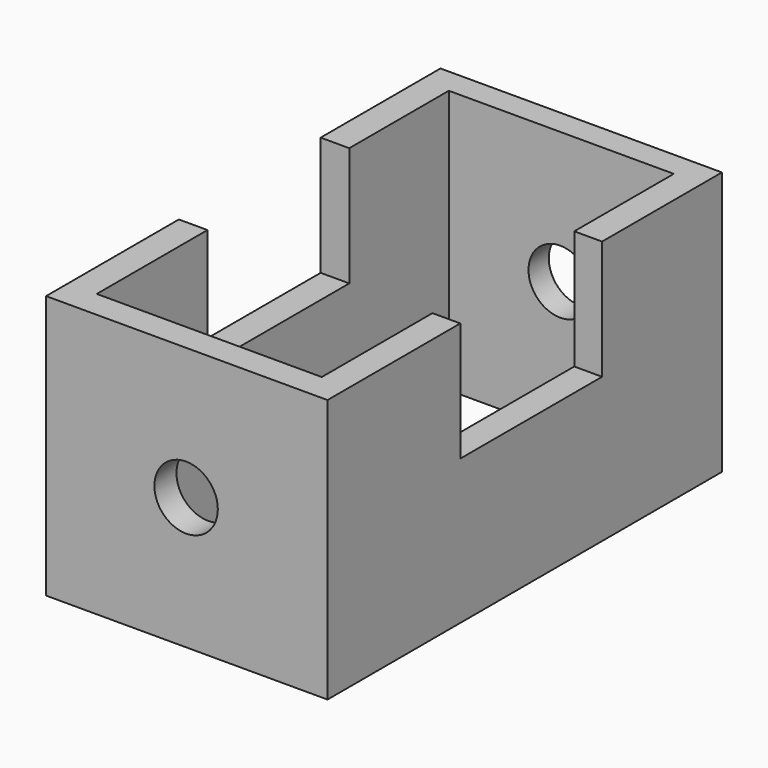
from build123d import *

# Parameters (mm, degrees)
F0_W     = 106.1013787985
F0_H     = 185.8578324318
F1_DEPTH = 99.4051918387
F2_R     = 11.9577926149
F3_DEPTH = 185.8588324318
F4_W     = 66.8169781566
F4_H     = 44.8713488877
F5_DEPTH = 106.1023787985
F6_W     = 84.8165526986
F6_H     = 165.8911928535
F7_DEPTH = 99.4061918387


with BuildPart() as f1:
    # F0 (on Top) → F1 (new body)
    with BuildSketch(Plane.XY):
        with Locations((-35.3671237826, 0)):
            Rectangle(F0_W, F0_H)
    extrude(amount=F1_DEPTH)

    # F2 (on face) → F3 (cut, through all)
    with BuildSketch(Plane.XZ.offset(92.9289162159)):
        with Locations((-35.6283932924, 49.7025959194)):
            Circle(F2_R)
    extrude(amount=-F3_DEPTH, mode=Mode.SUBTRACT)

    # F4 (on face) → F5 (cut, through all)
    with BuildSketch(Plane(origin=(-88.4178131819, 0, 0), x_dir=(0, -1, 0), z_dir=(-1, 0, 0))):
        with Locations((-3.043372184, 76.9695173949)):
            Rectangle(F4_W, F4_H)
    extrude(amount=-F5_DEPTH, mode=Mode.SUBTRACT)

    # F6 (on face) → F7 (cut, through all)
    with BuildSketch(Plane.XY.offset(99.4051918387)):
        with Locations((-35.2126248181, 0.4157535732)):
            Rectangle(F6_W, F6_H)
    extrude(amount=-F7_DEPTH, mode=Mode.SUBTRACT)


solid = f1.part
